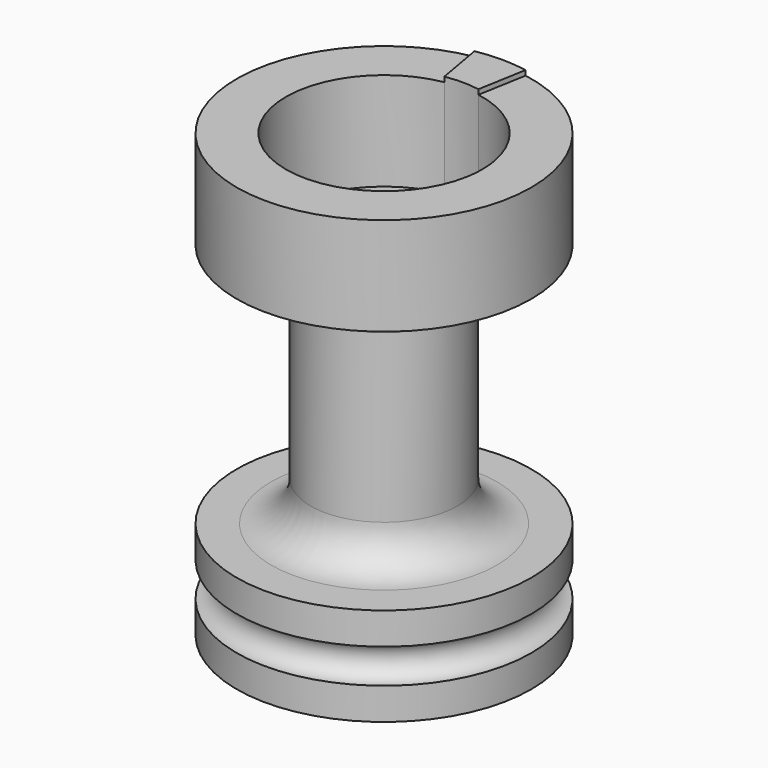
from build123d import *

# Parameters (mm, degrees)
F3_DEPTH = 19.99
F4_R     = 8
F5_DEPTH = 1


with BuildPart() as f1:
    # F0 (on Front) → F1 (revolve)
    with BuildSketch(Plane.XZ):
        with BuildLine():
            Line((0, 90), (0, 0))
            Line((0, 0), (30, 0))
            Line((30, 0), (30, 6.5))
            ThreePointArc((30, 6.5), (26.5, 10), (30, 13.5))
            Line((30, 13.5), (30, 20))
            Line((30, 20), (15, 20))
            Line((15, 20), (15, 70))
            Line((15, 70), (30, 70))
            Line((30, 70), (30, 90))
            Line((30, 90), (0, 90))
        make_face()
    revolve(axis=Axis((0, 0, 45), (0, 0, 1)))

    # F2 (on face) → F3 (cut)
    with BuildSketch(Plane.XY.offset(90)):
        with BuildLine():
            ThreePointArc((20, 0), (19.923894, 1.743115), (19.696155, 3.472964))
            ThreePointArc((19.696155, 3.472964), (14.142136, 14.142136), (3.472964, 19.696155))
            ThreePointArc((3.472964, 19.696155), (0, 20), (-3.472964, 19.696155))
            ThreePointArc((-3.472964, 19.696155), (-14.142136, -14.142136), (19.696155, -3.472964))
            ThreePointArc((19.696155, -3.472964), (19.923894, -1.743115), (20, 0))
        make_face()
    extrude(amount=-F3_DEPTH, mode=Mode.SUBTRACT)

    # F4
    f4_edges = [f1.edges().sort_by_distance(p)[0] for p in [
        (-15, 0, 20),
        (-15, 0, 70),
        (15, 0, 45),
    ]]
    fillet(f4_edges, radius=F4_R)

    # F2 (on face) → F5 (join)
    with BuildSketch(Plane.XY.offset(90)):
        with BuildLine():
            Line((3.472964, 19.696155), (5.209445, 29.544233))
            ThreePointArc((5.209445, 29.544233), (0, 30), (-5.209445, 29.544233))
            Line((-5.209445, 29.544233), (-3.472964, 19.696155))
            ThreePointArc((-3.472964, 19.696155), (0, 20), (3.472964, 19.696155))
        make_face()
    extrude(amount=F5_DEPTH)


solid = f1.part
